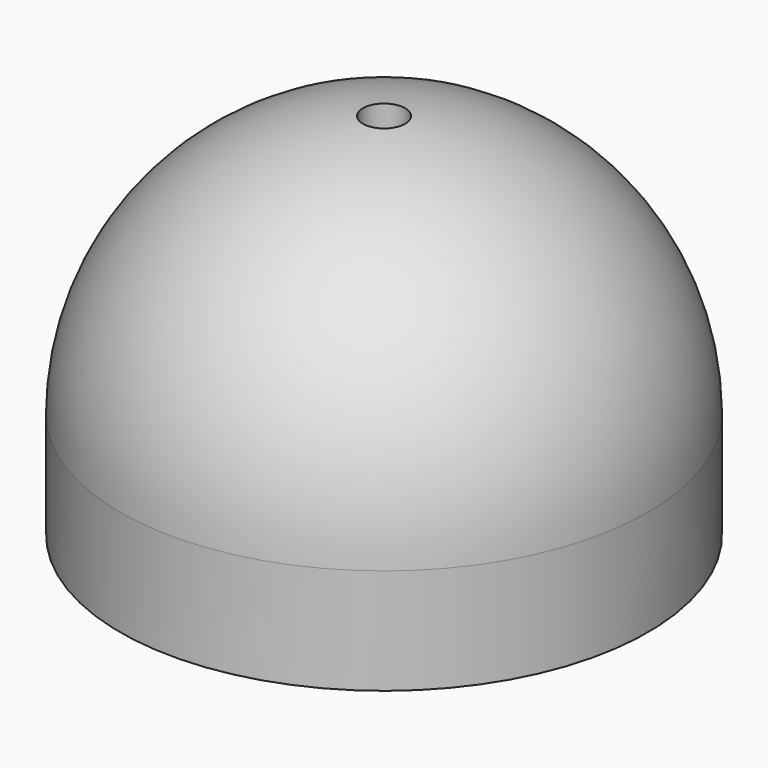
from build123d import *

# Parameters (mm, degrees)
F4_DEPTH = 5
F3_R     = 10.75
F5_DEPTH = 1.3
F6_R     = 1
F7_DEPTH = 22.1
F8_R     = 1


with BuildPart() as f2:
    # F0 (on Front) → F2 (revolve)
    with BuildSketch(Plane.XZ):
        with BuildLine():
            ThreePointArc((-10.5, 0), (-7.4246212025, 7.4246212025), (0, 10.5))
            Line((0, 10.5), (0, 12.5))
            ThreePointArc((0, 12.5), (-8.8388347648, 8.8388347648), (-12.5, 0))
            Line((-12.5, 0), (-10.5, 0))
        make_face()
    revolve(axis=Axis((0, 0, 21.9115), (0, 0, 1)))

    # F4 (add): a face of the model
    f4_faces = [f2.faces().sort_by_distance(p)[0] for p in [
        (12.1464466094, 0, 0),
    ]]
    extrude(f4_faces, amount=F4_DEPTH)

    # F3 (on Top) → F5 (cut)
    with BuildSketch(Plane.XY):
        Circle(F3_R)
    extrude(amount=-F5_DEPTH, mode=Mode.SUBTRACT)

    # F6 (on Top) → F7 (cut)
    with BuildSketch(Plane.XY):
        Circle(F6_R)
    extrude(amount=F7_DEPTH, mode=Mode.SUBTRACT)

    # F8
    f8_edges = [f2.edges().sort_by_distance(p)[0] for p in [
        (10.5, 0, -5),
        (0, -1, 10.452272),
        (0, 1, 10.452272),
    ]]
    fillet(f8_edges, radius=F8_R)


solid = f2.part
